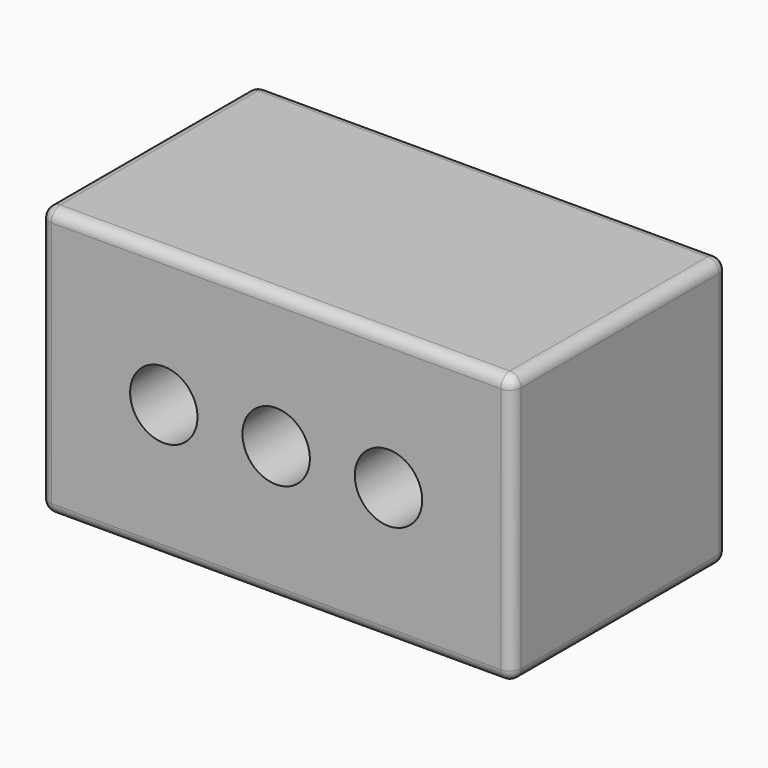
from build123d import *

# Parameters (mm, degrees)
F1_DEPTH = 152.4
F2_R     = 6.35


with BuildPart() as f1:
    # F0 (on Front) → F1 (new body)
    with BuildSketch(Plane.XZ):
        with BuildLine():
            Line((-133.35, -76.2), (133.35, -76.2))
            Line((133.35, -76.2), (133.35, 0))
            Line((133.35, 0), (82.55, 0))
            ThreePointArc((82.55, 0), (63.5, -19.05), (44.45, 0))
            Line((44.45, 0), (19.05, 0))
            ThreePointArc((19.05, 0), (0, -19.05), (-19.05, 0))
            Line((-19.05, 0), (-44.45, 0))
            ThreePointArc((-44.45, 0), (-63.5, -19.05), (-82.55, 0))
            Line((-82.55, 0), (-133.35, 0))
            Line((-133.35, 0), (-133.35, -76.2))
        make_face()
        with BuildLine():
            Line((82.55, 0), (133.35, 0))
            Line((133.35, 0), (133.35, 76.2))
            Line((133.35, 76.2), (-133.35, 76.2))
            Line((-133.35, 76.2), (-133.35, 0))
            Line((-133.35, 0), (-82.55, 0))
            ThreePointArc((-82.55, 0), (-63.5, 19.05), (-44.45, 0))
            Line((-44.45, 0), (-19.05, 0))
            ThreePointArc((-19.05, 0), (0, 19.05), (19.05, 0))
            Line((19.05, 0), (44.45, 0))
            ThreePointArc((44.45, 0), (63.5, 19.05), (82.55, 0))
        make_face()
    extrude(amount=F1_DEPTH)

    # F2
    f2_edges = [f1.edges().sort_by_distance(p)[0] for p in [
        (0, -152.4, 76.2),
        (133.35, -152.4, 0),
        (-133.35, -152.4, 0),
        (0, -152.4, -76.2),
        (133.35, 0, 0),
        (133.35, -76.2, -76.2),
        (133.35, -76.2, 76.2),
        (-133.35, -76.2, 76.2),
        (0, 0, 76.2),
        (-133.35, -76.2, -76.2),
        (-133.35, 0, 0),
        (0, 0, -76.2),
    ]]
    fillet(f2_edges, radius=F2_R)


solid = f1.part
